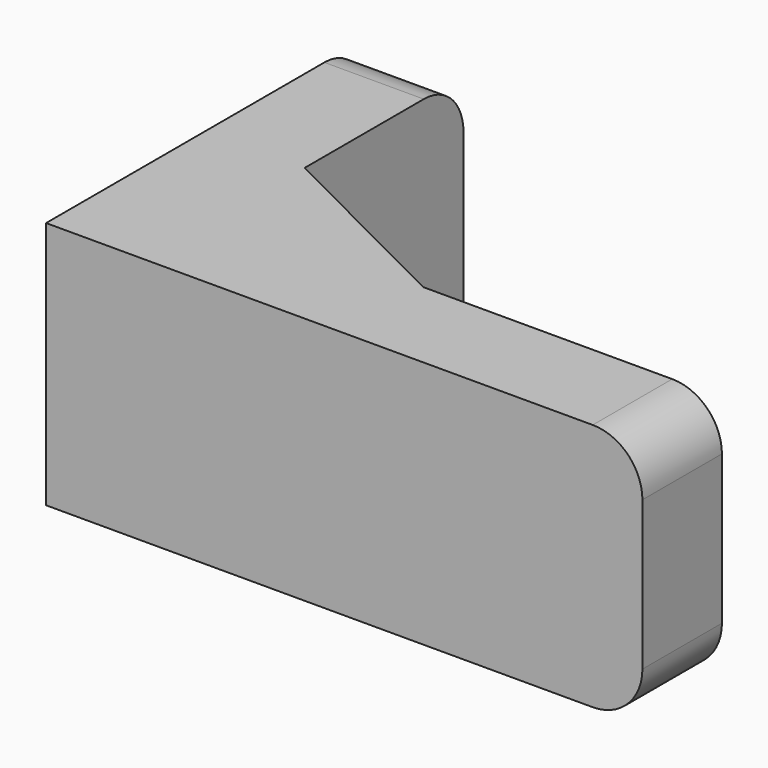
from build123d import *

# Parameters (mm, degrees)
F1_DEPTH = 25
F2_R     = 5
F3_R     = 5


with BuildPart() as f1:
    # F0 (on Top) → F1 (new body)
    with BuildSketch(Plane.XY):
        Polygon((-24.206446, 26.655727), (-34.206446, 26.655727), (-34.206446, -13.344273), (25.793554, -13.344273), (25.793554, -3.344273), (-4.206446, -3.344273), (-24.206446, 6.655727), align=None)
    extrude(amount=F1_DEPTH)

    # F2
    f2_edges = [f1.edges().sort_by_distance(p)[0] for p in [
        (-29.206446, 26.655727, 25),
        (-29.206446, 26.655727, 0),
    ]]
    fillet(f2_edges, radius=F2_R)

    # F3
    f3_edges = [f1.edges().sort_by_distance(p)[0] for p in [
        (25.793554, -8.344273, 25),
        (25.793554, -8.344273, 0),
    ]]
    fillet(f3_edges, radius=F3_R)


solid = f1.part
